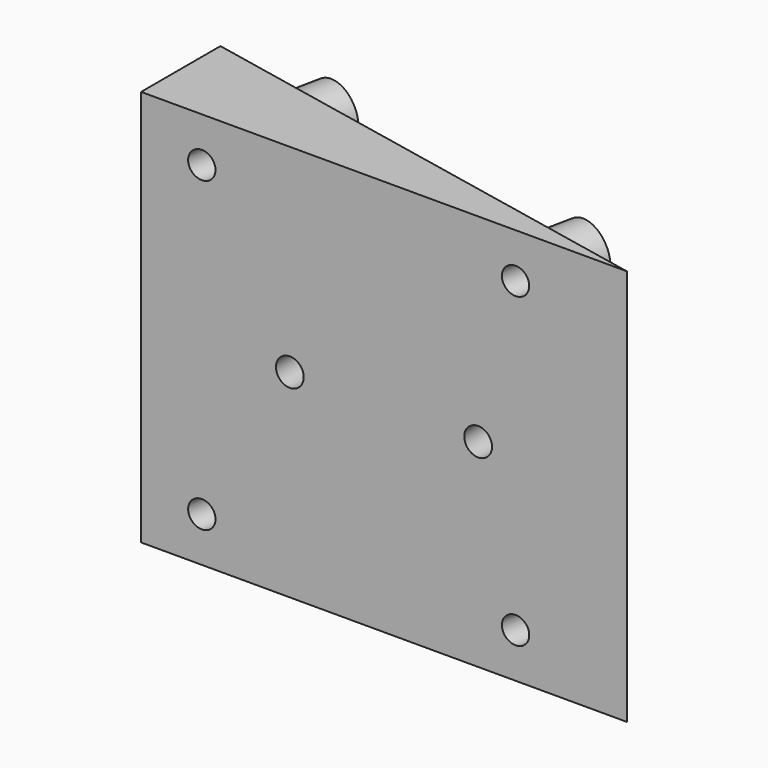
from build123d import *

# Parameters (mm, degrees)
PAD_DEPTH       = 20
SKETCH001_R     = 3
PAD001_DEPTH    = 5
SKETCH002_R     = 1.35
POCKET_DEPTH    = 14.7989589711
SKETCH003_R     = 1.4
POCKET001_DEPTH = 13.8999794856
SKETCH004_R     = 3
SKETCH004_R_2   = 1.6
PAD002_DEPTH    = 4
SKETCH005_R     = 3
SKETCH005_R_2   = 1.6
PAD003_DEPTH    = 8


with BuildPart() as part:
    # Sketch → Pad (new body, symmetric)
    with BuildSketch(Plane.XY):
        Polygon((0, 0), (-48.9897948557, 10), (-48.9897948557, 0), align=None)
    extrude(amount=PAD_DEPTH, both=True)

    # Sketch001 (on Face1 of Pad) → Pad001 (join)
    with BuildSketch(Plane(origin=(0, 0, 0), x_dir=(-0.9797958971, 0.2, 0), z_dir=(0.2, 0.9797958971, 0))):
        with Locations((42, 15.5)):
            Circle(SKETCH001_R)
        with Locations((42, -15.5)):
            Circle(SKETCH001_R)
        with Locations((11, -15.5)):
            Circle(SKETCH001_R)
        with Locations((11, 15.5)):
            Circle(SKETCH001_R)
    extrude(amount=PAD001_DEPTH)

    # Sketch002 (on Face11 of Pad001) → Pocket (cut, through all)
    with BuildSketch(Plane(origin=(1, 4.8989794856, 0), x_dir=(-0.9797958971, 0.2, 0), z_dir=(0.2, 0.9797958971, 0))):
        with Locations((42, -15.5)):
            Circle(SKETCH002_R)
        with Locations((11, -15.5)):
            Circle(SKETCH002_R)
        with Locations((42, 15.5)):
            Circle(SKETCH002_R)
        with Locations((11, 15.5)):
            Circle(SKETCH002_R)
    extrude(amount=-POCKET_DEPTH, mode=Mode.SUBTRACT)

    # Sketch003 (on Face2 of Pocket) → Pocket001 (cut, through all)
    with BuildSketch(Plane.XZ):
        with Locations((-15, 0)):
            Circle(SKETCH003_R)
        with Locations((-33.9897948557, 0)):
            Circle(SKETCH003_R)
    extrude(amount=-POCKET001_DEPTH, mode=Mode.SUBTRACT)

    # Sketch004 (on Face2 of Pocket001) → Pad002 (join)
    with BuildSketch(Plane.XZ):
        with Locations((-15, 0)):
            Circle(SKETCH004_R)
        with Locations((-15, 0)):
            Circle(SKETCH004_R_2, mode=Mode.SUBTRACT)
    extrude(amount=-PAD002_DEPTH)

    # Sketch005 (on Face2 of Pad002) → Pad003 (join)
    with BuildSketch(Plane.XZ):
        with Locations((-33.9897948557, 0)):
            Circle(SKETCH005_R)
        with Locations((-33.9897948557, 0)):
            Circle(SKETCH005_R_2, mode=Mode.SUBTRACT)
    extrude(amount=-PAD003_DEPTH)


solid = part.part
